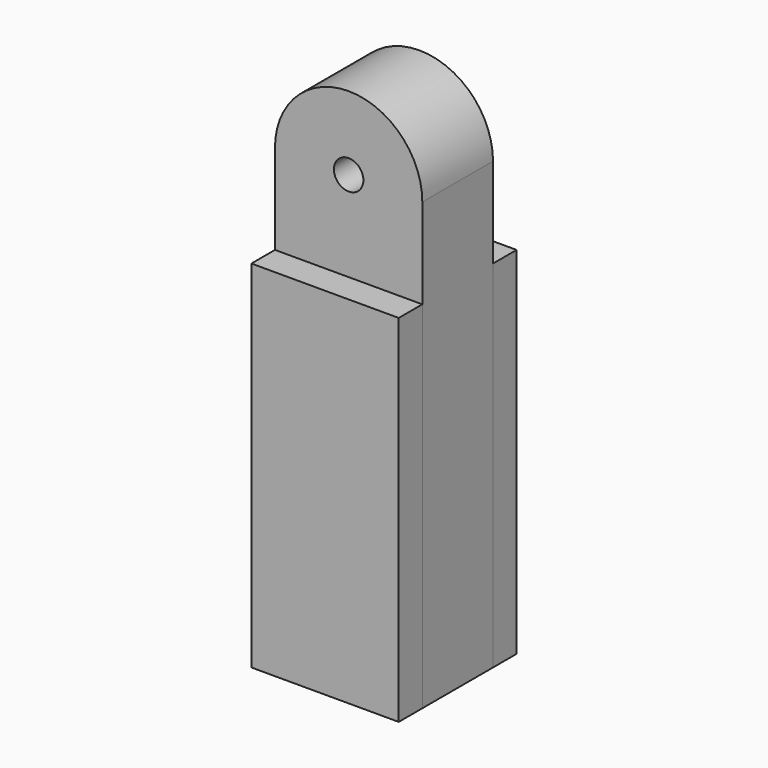
from build123d import *

# Parameters (mm, degrees)
F0_W     = 50
F0_H     = 120.693737
F1_DEPTH = 25
F0_R     = 5
F2_DEPTH = 15


with BuildPart() as f1:
    # F0 (on Front) → F1 (new body, symmetric)
    with BuildSketch(Plane.XZ):
        with Locations((-57.829825, -22.370804)):
            Rectangle(F0_W, F0_H)
    extrude(amount=F1_DEPTH, both=True)


with BuildPart() as f2:
    # F0 (on Front) → F2 (new body, symmetric)
    with BuildSketch(Plane.XZ):
        with Locations((-57.829825, -22.370804)):
            Rectangle(F0_W, F0_H)
        with BuildLine():
            Line((-82.829825, 68.54494), (-82.829825, 37.976064))
            Line((-82.829825, 37.976064), (-32.829825, 37.976064))
            Line((-32.829825, 37.976064), (-32.829825, 68.54494))
            ThreePointArc((-32.829825, 68.54494), (-57.829825, 43.54494), (-82.829825, 68.54494))
        make_face()
        with BuildLine():
            ThreePointArc((-32.829825, 68.54494), (-57.829825, 93.54494), (-82.829825, 68.54494))
            ThreePointArc((-82.829825, 68.54494), (-57.829825, 43.54494), (-32.829825, 68.54494))
        make_face()
        with Locations((-57.829825, 68.54494)):
            Circle(F0_R, mode=Mode.SUBTRACT)
    extrude(amount=F2_DEPTH, both=True)


solid = Compound([f1.part, f2.part])
